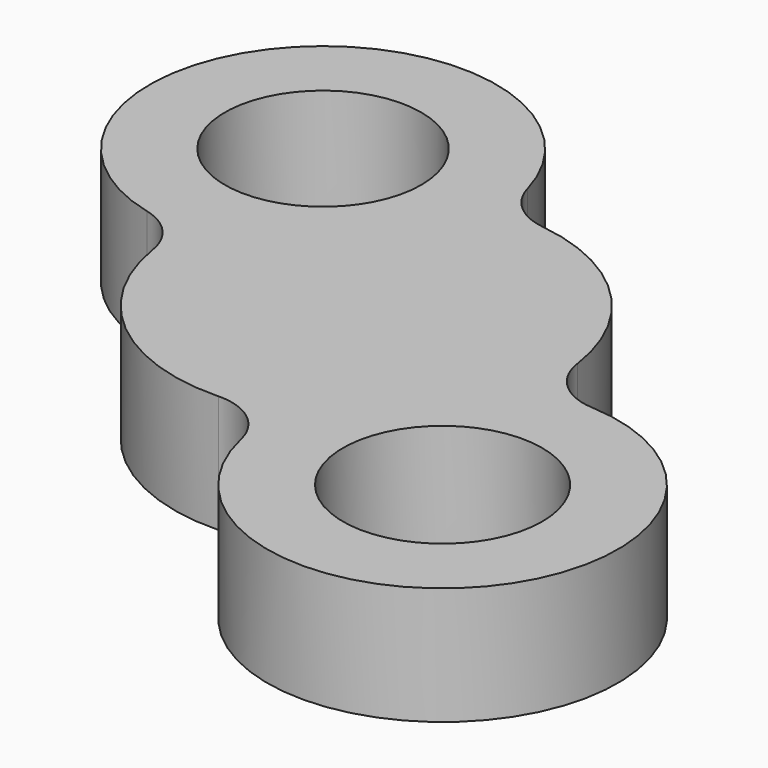
from build123d import *

# Parameters (mm, degrees)
F1_DEPTH = 25.4
F2_R     = 21.201503
F3_DEPTH = 25.401
F4_R     = 12.7
F5_R     = 12.7
F6_R     = 12.7
F7_R     = 12.7
F8_R     = 21.507739
F9_DEPTH = 25.401


with BuildPart() as f1:
    # F0 (on Top) → F1 (new body)
    with BuildSketch(Plane.XY):
        with BuildLine():
            ThreePointArc((24.118333, -0.702734), (13.366391, 34.203378), (-20.838827, 47.011342))
            ThreePointArc((-20.838827, 47.011342), (-85.141829, 72.076017), (-58.070359, 8.591772))
            ThreePointArc((-58.070359, 8.591772), (-42.025812, -26.985416), (-3.531117, -33.413651))
            ThreePointArc((-3.531117, -33.413651), (62.977366, -61.590022), (24.118333, -0.702734))
        make_face()
    extrude(amount=F1_DEPTH)

    # F2 (on face) → F3 (cut, through all)
    with BuildSketch(Plane.XY.offset(25.4)):
        with Locations((-58.259711, 46.025168)):
            Circle(F2_R)
    extrude(amount=-F3_DEPTH, mode=Mode.SUBTRACT)

    # F4
    f4_edges = [f1.edges().sort_by_distance(p)[0] for p in [
        (-3.531117, -33.413651, 12.7),
    ]]
    fillet(f4_edges, radius=F4_R)

    # F5
    f5_edges = [f1.edges().sort_by_distance(p)[0] for p in [
        (24.118333, -0.702734, 12.7),
    ]]
    fillet(f5_edges, radius=F5_R)

    # F6
    f6_edges = [f1.edges().sort_by_distance(p)[0] for p in [
        (-20.838827, 47.011342, 12.7),
    ]]
    fillet(f6_edges, radius=F6_R)

    # F7
    f7_edges = [f1.edges().sort_by_distance(p)[0] for p in [
        (-58.070359, 8.591772, 12.7),
    ]]
    fillet(f7_edges, radius=F7_R)

    # F8 (on face) → F9 (cut, through all)
    with BuildSketch(Plane.XY.offset(25.4)):
        with Locations((34.096744, -37.178192)):
            Circle(F8_R)
    extrude(amount=-F9_DEPTH, mode=Mode.SUBTRACT)


solid = f1.part
